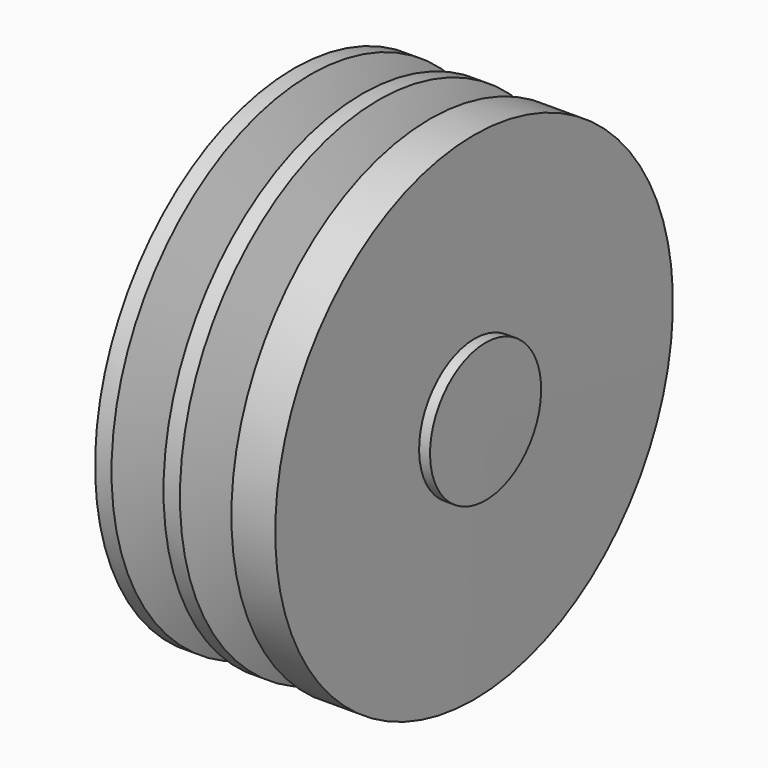
from build123d import *


with BuildPart() as f1:
    # F0 (on Front) → F1 (revolve)
    with BuildSketch(Plane.XZ):
        Polygon((-9.39853, 13.208), (-9.39853, 0), (5.079474, 0), (5.064317, 4.825976), (4.302321, 4.823583), (4.263225, 17.272), (1.215225, 17.272), (0, 13.208), (-1.143, 13.208), (-2.358225, 17.272), (-3.501225, 17.272), (-4.71645, 13.208), (-5.85945, 13.208), (-7.11253, 17.272), (-8.25553, 17.272), (-8.25553, 13.208), align=None)
    revolve(axis=Axis((-2.159528, 0, 0), (1, 0, 0)))


solid = f1.part
